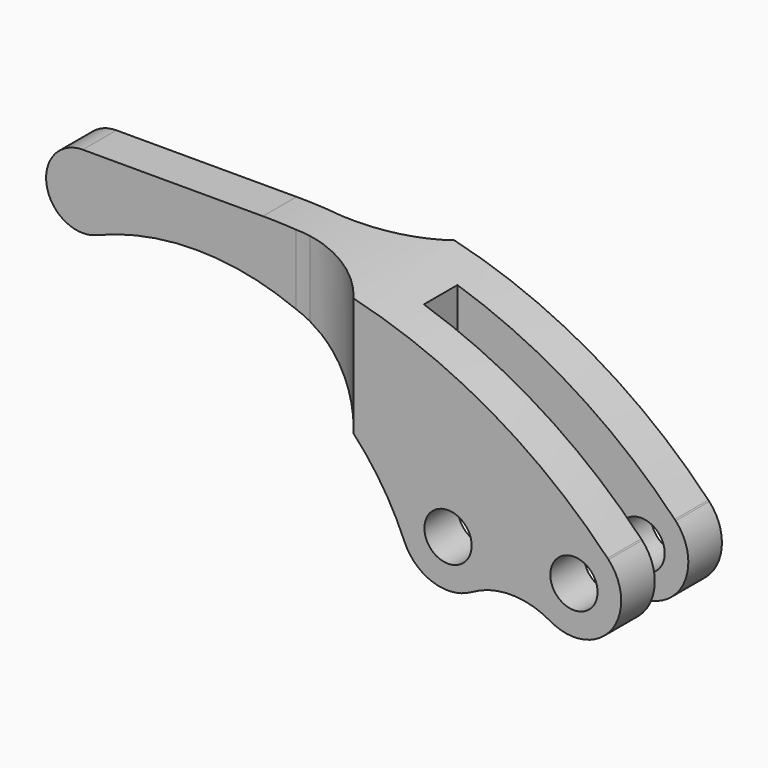
from build123d import *

# Parameters (mm, degrees)
F0_R          = 4.5
F1_DEPTH      = 24
F2_W          = 44
F2_H          = 8
F3_DEPTH      = 500
F3_DEPTH_BACK = 500


with BuildPart() as f1:
    # F0 (on Front) → F1 (new body)
    with BuildSketch(Plane.XZ):
        with BuildLine():
            Line((5.0324307792, 37), (-29.3005991912, 37))
            ThreePointArc((-29.3005991912, 37), (-36.16925593, 28.6503501919), (-26.6519474056, 23.5204441728))
            ThreePointArc((-26.6519474056, 23.5204441728), (11.4307481655, 23.4196145494), (38.3961523004, -3.4721843568))
            ThreePointArc((38.3961523004, -3.4721843568), (43.8208262505, -8.5272392081), (51.1994008088, -7.7942286341))
            ThreePointArc((51.1994008088, -7.7942286341), (58.6994008088, -5.7846096908), (66.1994008088, -7.7942286341))
            ThreePointArc((66.1994008088, -7.7942286341), (77.7427343256, -5.6028075971), (77.281890635, 6.1376565306))
            ThreePointArc((77.281890635, 6.1376565306), (77.1932786056, 6.2301382417), (77.1045481967, 6.3225063811))
            ThreePointArc((77.1045481967, 6.3225063811), (44.1971429695, 29.011549922), (5.0324307792, 37))
        make_face()
        with Locations((46.6994008088, 0)):
            Circle(F0_R, mode=Mode.SUBTRACT)
        with Locations((70.6994008088, 0)):
            Circle(F0_R, mode=Mode.SUBTRACT)
    extrude(amount=F1_DEPTH)

    # F2 (on Top) → F3 (cut, two sides)
    with BuildSketch(Plane.XY) as f3_sk:
        with BuildLine():
            Line((-36.3005991912, 0), (-36.3005991912, -8))
            Line((-36.3005991912, -8), (11.2890750086, -8))
            Line((11.2890750086, -8), (14.0389679, -8))
            ThreePointArc((14.0389679, -8), (22.2442020954, -5.6035173609), (28.6994008088, 0))
            Line((28.6994008088, 0), (-36.3005991912, 0))
        make_face()
        with BuildLine():
            Line((-36.3005991912, -16), (-36.3005991912, -24))
            Line((-36.3005991912, -24), (28.6994008088, -24))
            ThreePointArc((28.6994008088, -24), (22.2442020954, -18.3964826391), (14.0389679, -16))
            Line((14.0389679, -16), (11.2890750086, -16))
            Line((11.2890750086, -16), (-36.3005991912, -16))
        make_face()
        with BuildLine():
            ThreePointArc((14.0389679, -16), (12.6640214543, -15.9526820822), (11.2890750086, -16))
            Line((11.2890750086, -16), (14.0389679, -16))
        make_face()
        with BuildLine():
            Line((14.0389679, -8), (11.2890750086, -8))
            ThreePointArc((11.2890750086, -8), (12.6640214543, -8.0473179178), (14.0389679, -8))
        make_face()
        with Locations((57.6994008088, -12)):
            Rectangle(F2_W, F2_H)
    extrude(amount=-F3_DEPTH, mode=Mode.SUBTRACT)
    extrude(f3_sk.sketch, amount=F3_DEPTH_BACK, mode=Mode.SUBTRACT)


solid = f1.part
